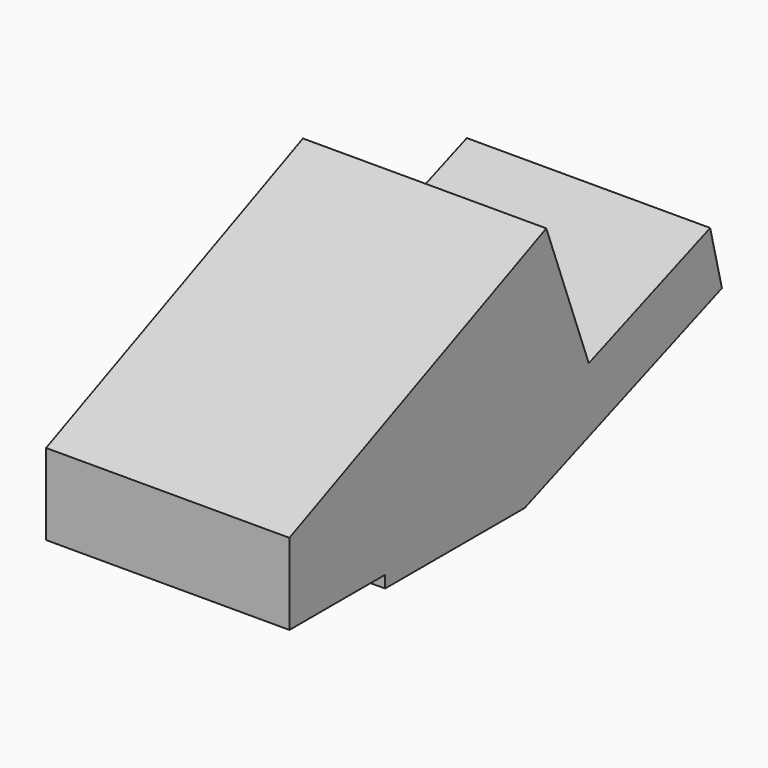
from build123d import *

# Parameters (mm, degrees)
F1_DEPTH = 60


with BuildPart() as f1:
    # F0 (on Right) → F1 (new body)
    with BuildSketch(Plane.YZ):
        Polygon((0, 0), (0, -20), (29.5, -20), (29.5, -23), (72.5, -23), (133.294737, 0), (129.665908, 14.554436), (92.253763, 0.40059), (79.166468, 34.993572), align=None)
    extrude(amount=F1_DEPTH)


solid = f1.part
